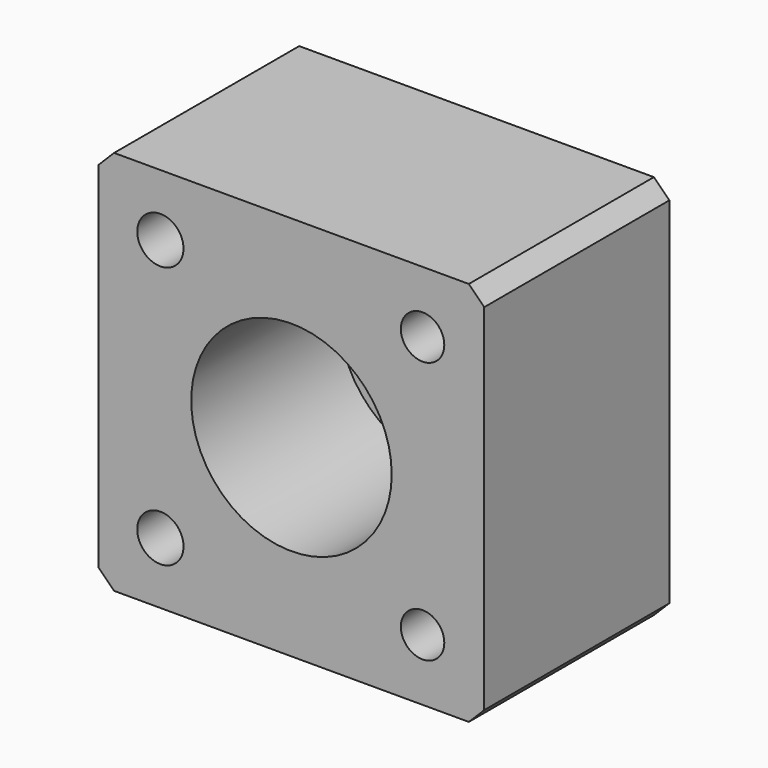
from build123d import *

# Parameters (mm, degrees)
F0_W     = 125
F0_H     = 125
F1_DEPTH = 75
F2_SIZE  = 5
F3_R     = 7.5
F3_R_2   = 7.043913
F4_DEPTH = 75.001
F5_R     = 32.5
F6_DEPTH = 75.001
F7_R     = 32.5
F8_DEPTH = 15


with BuildPart() as f1:
    # F0 (on Front) → F1 (new body)
    with BuildSketch(Plane.XZ):
        Rectangle(F0_W, F0_H)
    extrude(amount=F1_DEPTH)

    # F2
    f2_edges = [f1.edges().sort_by_distance(p)[0] for p in [
        (62.5, -37.5, 62.5),
        (-62.5, -37.5, 62.5),
        (62.5, -37.5, -62.5),
        (-62.5, -37.5, -62.5),
    ]]
    chamfer(f2_edges, length=F2_SIZE)

    # F3 (on face) → F4 (cut, through all)
    with BuildSketch(Plane.XZ.offset(75)):
        with Locations((-42.5, 42.5)):
            Circle(F3_R)
        with Locations((-42.5, -42.5)):
            Circle(F3_R)
        with Locations((42.5, -42.5)):
            Circle(F3_R_2)
        with Locations((42.5, 42.5)):
            Circle(F3_R_2)
    extrude(amount=-F4_DEPTH, mode=Mode.SUBTRACT)

    # F5 (on face) → F6 (cut, through all)
    with BuildSketch(Plane.XZ.offset(75)):
        Circle(F5_R)
    extrude(amount=-F6_DEPTH, mode=Mode.SUBTRACT)

    # F7 (on face) → F8 (join)
    with BuildSketch(Plane(origin=(0, 0, 0), x_dir=(-1, 0, 0), z_dir=(0, 1, 0))):
        Circle(F7_R)
    extrude(amount=-F8_DEPTH)


solid = f1.part
